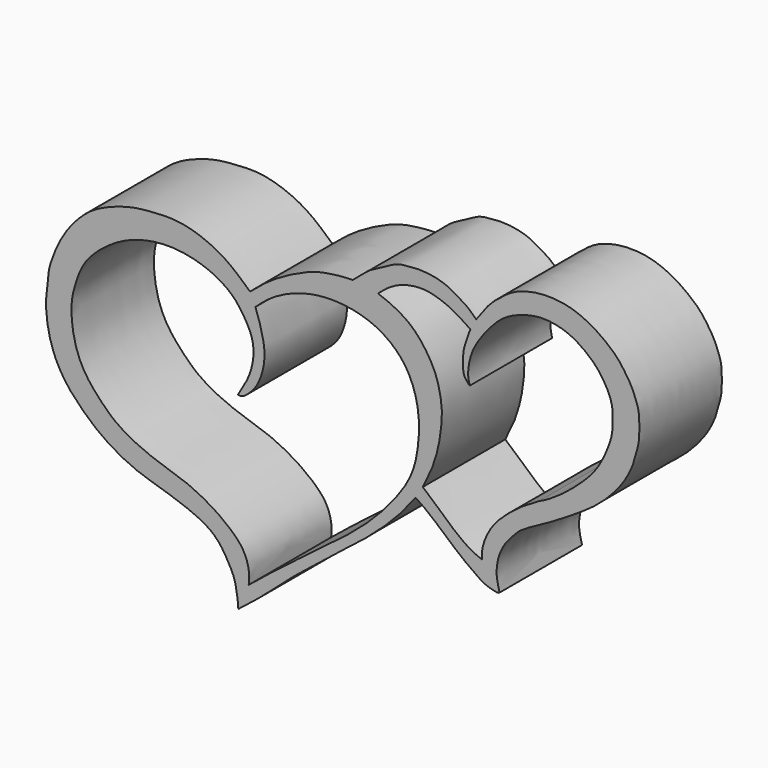
from build123d import *

# Parameters (mm, degrees)
F1_DEPTH = 25.4


with BuildPart() as f1:
    # F0 (on Front) → F1 (new body)
    with BuildSketch(Plane.XZ):
        with BuildLine():
            add(Edge.make_bspline(
                [(-22.489529103, 16.3989048451), (-22.0142075776, 16.8060529981), (-20.9521655065, 17.7157708301), (-18.592749368, 19.6539799274), (-14.772744136, 22.198501643), (-9.6422708816, 24.7982253854), (-5.0473006646, 26.4748851839), (0.5387129096, 27.1087820233), (2.1749027801, 27.1328115897), (2.8071058914, 27.1420963109)],
                knots=[0, 0, 0, 0, 0.1017264919, 0.2272941752, 0.3840765855, 0.5579878597, 0.7224481579, 0.8927574719, 1, 1, 1, 1], degree=3))
            add(Edge.make_bspline(
                [(-25.3783352673, -53.4045882523), (-25.380810705, -53.2480326303), (-25.3900720852, -52.6623094816), (-25.9543071106, -47.5353584613), (-27.5329464576, -44.6140779389), (-29.8213881557, -40.507419256), (-33.0993677019, -37.7370435063), (-37.9442625297, -35.5167498457), (-44.149647689, -33.4436517233), (-50.5240418616, -31.6413562893), (-56.6141165823, -28.5211982215), (-61.6579988208, -24.8807606802), (-67.4546960547, -19.117941277), (-70.1048380578, -14.5464311113), (-71.2024590483, -11.7399850464), (-72.2741058098, -8.3340974475), (-73.0383386057, -2.4850478066), (-72.2961752506, 2.3119528559), (-72.1582555502, 5.8594022765), (-69.0511223183, 13.4564623225), (-64.807396324, 18.6880875725), (-60.3392144955, 22.4159058568), (-52.4944694734, 25.2888831952), (-47.0769112921, 25.8160573746), (-40.2954789709, 26.2267395115), (-33.833493715, 24.3450200389), (-28.7702060765, 21.7690490948), (-25.067145744, 18.7536621902), (-23.3023322512, 17.1414334868), (-22.489529103, 16.3989048451)],
                knots=[0, 0, 0, 0, 0.0131358269, 0.0491452035, 0.0803462978, 0.1147492547, 0.1482068994, 0.1854767669, 0.2271834867, 0.2692864962, 0.3113056222, 0.3522569132, 0.3988301977, 0.4359469531, 0.4634190576, 0.4938684524, 0.5335752927, 0.5690104067, 0.5995275867, 0.6454959589, 0.6879668152, 0.7270770898, 0.7733463831, 0.8117598199, 0.8535925726, 0.8957925339, 0.9346088434, 0.969883425, 1, 1, 1, 1], degree=3))
            add(Edge.make_bspline(
                [(18.2846803218, -15.0200212374), (17.2488014993, -16.3851988473), (14.9876384889, -19.3651701015), (9.8523743638, -24.628899687), (3.3350620135, -30.0793577788), (-1.4164666367, -33.472404808), (-6.2282079426, -37.5841411525), (-11.7960187043, -41.7298710073), (-18.8890278718, -48.3530093587), (-23.2732392277, -51.7658835224), (-25.3783352673, -53.4045882523)],
                knots=[0, 0, 0, 0, 0.107383803, 0.234402208, 0.3702738552, 0.4830268297, 0.5979632031, 0.7213788304, 0.8662189678, 1, 1, 1, 1], degree=3))
            add(Edge.make_bspline(
                [(39.0041060746, -28.8992524147), (38.8729618126, -28.9803309307), (38.4370472908, -29.2498303508), (35.3213271287, -28.3304855542), (33.6573681709, -27.213399163), (29.7874759534, -24.4825893522), (26.0861828074, -21.2274648356), (21.1446237918, -16.9143854411), (19.1282100255, -15.578756923), (18.2846803218, -15.0200212374)],
                knots=[0, 0, 0, 0, 0.0583915601, 0.1940895363, 0.3111787807, 0.4764606156, 0.6567506281, 0.8564079229, 1, 1, 1, 1], degree=3))
            add(Edge.make_bspline(
                [(33.2293175161, 28.4887123853), (33.5652698457, 28.956174708), (34.3413388216, 30.0360392423), (36.2655541727, 32.66313762), (38.8241490007, 34.9814046609), (42.264905797, 37.5106969682), (45.6856256834, 38.6654818677), (49.3736228408, 39.3648169167), (53.8302058527, 39.2115990037), (57.5039342502, 38.3766303984), (61.1892434393, 36.7088023435), (63.0570257756, 35.5977111085), (67.5176295642, 32.2990656856), (69.717497614, 29.2696548278), (71.7906455541, 26.1360180586), (72.6966159606, 23.3828994613), (73.5488922898, 21.1914433428), (73.4658935031, 15.0838276145), (72.8555949781, 13.0761426998), (71.9750283188, 9.4212688868), (70.1363906803, 5.8144681409), (68.1158208129, 3.0536512384), (65.327576658, -0.1273239878), (61.4598313529, -3.3567160343), (57.4500069001, -5.8550900101), (53.9653409377, -8.1688120667), (50.6586113493, -10.0044702793), (46.7910955969, -12.0950805458), (43.8308651947, -13.812457351), (42.1886331326, -15.6626893825), (40.0740449268, -18.0094280505), (38.78467028, -20.843232244), (38.2598449003, -23.3993848247), (38.2059874499, -25.964820687), (38.7296484973, -27.8901580297), (39.0041060746, -28.8992524147)],
                knots=[0, 0, 0, 0, 0.0219876424, 0.0507927038, 0.0811919785, 0.1142948103, 0.1447852686, 0.1759499748, 0.2097556335, 0.2416321644, 0.2731668021, 0.297566869, 0.3348098368, 0.3668828053, 0.3978332131, 0.4245503171, 0.4498853012, 0.488932674, 0.51321194, 0.5437148347, 0.576371639, 0.6060719943, 0.6390487649, 0.6753863109, 0.7106079357, 0.7433450706, 0.7747996688, 0.8087735596, 0.8383636115, 0.8634863111, 0.8919940128, 0.920427725, 0.9462845015, 0.9718470074, 1, 1, 1, 1], degree=3))
            add(Edge.make_bspline(
                [(2.8071058914, 27.1420963109), (3.3551292057, 27.5850813022), (4.5640591674, 28.5622985385), (6.9995159749, 30.804289668), (10.0397583163, 32.2069661755), (13.3960422353, 34.2367678554), (16.236862864, 34.5807964616), (19.3870836717, 34.8409944612), (22.9463969521, 34.4437012709), (25.8026136121, 33.6313862766), (28.3870401336, 32.1698654221), (30.9282020582, 30.7228339453), (32.450370672, 29.2449812342), (33.2293175161, 28.4887123853)],
                knots=[0, 0, 0, 0, 0.0770352702, 0.1699384748, 0.2657342116, 0.366879041, 0.4534530826, 0.544930606, 0.6425187552, 0.7313887059, 0.8195664332, 0.9076658419, 1, 1, 1, 1], degree=3))
        make_face()
        with BuildLine():
            add(Edge.make_bspline(
                [(-25.4823379219, -6.947863847), (-24.7072689742, -5.6969323506), (-23.1576715662, -3.1959416835), (-21.6461628304, 0.969488134), (-21.4380006601, 6.3319125716), (-24.3086582332, 11.1476605865), (-26.8036243823, 14.4618501748), (-32.0377472275, 17.9267050389), (-39.8331972349, 19.9649566058), (-46.5198051765, 19.6764260933), (-52.1629685941, 18.1597104693), (-57.232552556, 15.4128595751), (-61.6505378405, 11.6495146071), (-64.3040507004, 8.0072736154), (-65.9174804736, 2.9235295255), (-66.4245874173, 0.5098518949), (-66.5650579665, -2.3773550045), (-66.1677138116, -7.2344977002), (-64.0734074426, -14.0831092935), (-58.5559723013, -20.1552528216), (-55.0076685963, -23.274833037), (-49.7996324029, -26.1705320892), (-43.1891386801, -28.6209683132), (-37.7483904206, -30.1059271143), (-30.5357765284, -33.9051219234), (-25.7138102354, -38.0048986809), (-23.703528013, -40.7438113903), (-22.6108591004, -44.1549814179), (-22.7482957421, -46.2844193761), (-22.8221248835, -47.338347882)],
                knots=[0, 0, 0, 0, 0.0339332719, 0.0678752908, 0.1048698149, 0.1425859486, 0.1754090603, 0.2153590231, 0.2614587816, 0.3033237816, 0.3420995415, 0.3810269269, 0.4196729922, 0.4544810043, 0.4913695369, 0.5167370715, 0.5434336876, 0.5789068953, 0.6225761644, 0.6685870959, 0.7037869359, 0.742976338, 0.7858466539, 0.8246941104, 0.8710066382, 0.9116966704, 0.9411356801, 0.971091716, 1, 1, 1, 1], degree=3))
            add(Edge.make_bspline(
                [(-21.1741197854, 13.4959546849), (-20.8693187076, 12.6750661136), (-20.1541191021, 10.7488945052), (-18.7904460983, 5.63044739), (-18.9448277642, 1.3869803726), (-20.2809073845, -2.7506283952), (-21.953867731, -5.0693670884), (-24.2779941824, -7.1708159647), (-25.1517009956, -7.0090724542), (-25.4823379219, -6.947863847)],
                knots=[0, 0, 0, 0, 0.1349025238, 0.316541636, 0.4828585942, 0.6449443281, 0.7827250287, 0.9177766184, 1, 1, 1, 1], degree=3))
            add(Edge.make_bspline(
                [(-22.8221248835, -47.338347882), (-21.5822522753, -46.2956789062), (-18.8975740556, -44.0380028587), (-13.3786367389, -40.0119818677), (-7.4834514664, -35.1769076177), (-1.6102965896, -31.079988561), (4.574808039, -26.1502881033), (10.4055609049, -20.5837357105), (16.8275898816, -12.4069603536), (18.8338319817, -5.7060626577), (19.4800393704, 2.5176596885), (17.7670788338, 9.706905547), (14.1753368282, 15.4201033221), (7.3912683696, 20.0340646079), (-1.999211492, 21.6842681841), (-10.2532609996, 20.4162162346), (-17.0243398527, 17.223701668), (-19.8591000892, 14.6772367733), (-21.1741197854, 13.4959546849)],
                knots=[0, 0, 0, 0, 0.0513450438, 0.1111766804, 0.1745344492, 0.2358999201, 0.299560913, 0.3654074387, 0.4383046132, 0.4988227614, 0.5637745658, 0.6255467923, 0.68386707, 0.7483411877, 0.8184789434, 0.884655506, 0.94649273, 1, 1, 1, 1], degree=3))
        make_face(mode=Mode.SUBTRACT)
        with BuildLine():
            add(Edge.make_bspline(
                [(20.0696177781, -12.1469078586), (20.3852234686, -11.4961664462), (21.1011972394, -10.0199136512), (22.7486134217, -6.7086559014), (24.2279359077, -1.2017851215), (24.8399851295, 3.8965813923), (24.772046385, 7.4822513083), (23.5640639852, 13.7470469708), (19.7000144185, 19.5926431954), (16.3728794452, 22.8188276331), (12.0768502523, 25.147355713), (9.9666047358, 25.8924157912), (9.0142423287, 26.2286644429)],
                knots=[0, 0, 0, 0, 0.0709312706, 0.1609125907, 0.2746005356, 0.3805877285, 0.4691048808, 0.5868258793, 0.7112855652, 0.8131259346, 0.9156629722, 1, 1, 1, 1], degree=3))
            add(Edge.make_bspline(
                [(9.0142423287, 26.2286644429), (9.781606502, 26.9002846676), (11.4164995967, 28.3311923198), (14.9028149678, 30.2887902453), (19.7309715736, 31.0457554686), (23.176346388, 30.372601545), (27.0239241689, 28.986416891), (30.3458023302, 26.8438905907), (31.376030742, 26.1494619848), (31.781103462, 25.8764214814)],
                knots=[0, 0, 0, 0, 0.1347628617, 0.2871164431, 0.4536733694, 0.5959878328, 0.751089688, 0.9021316283, 1, 1, 1, 1], degree=3))
            add(Edge.make_bspline(
                [(31.781103462, 25.8764214814), (31.5595170065, 25.256414604), (31.0733591452, 23.8961274108), (30.0536992964, 21.0183458375), (29.9166539985, 18.4823334355), (29.9802337248, 15.2177571653), (31.1102506713, 14.096226199), (31.627908349, 13.5824559256)],
                knots=[0, 0, 0, 0, 0.1798859474, 0.3946674778, 0.5971394536, 0.8154506837, 1, 1, 1, 1], degree=3))
            add(Edge.make_bspline(
                [(31.627908349, 13.5824559256), (31.5107009295, 14.034873765), (31.2517464304, 15.0344319444), (31.2037858605, 17.1646885735), (31.9933090897, 21.2453966152), (34.750257277, 25.6781414092), (38.9342029872, 30.5537667425), (43.1109017521, 32.8192261417), (48.9681655014, 34.4778949567), (54.9577135812, 33.4467128295), (59.0306286434, 31.2356283812), (63.6372346152, 27.5896212214), (67.0821336842, 21.2672992494), (66.793991644, 17.0747396851), (66.8953139195, 14.0525303173), (64.4149515485, 7.8514587989), (61.9453566492, 4.337083878), (59.2659073359, 1.5496015218), (55.772336197, -1.5093516006), (52.3217323286, -4.0046951668), (49.8222697336, -5.4150703128), (48.6838258803, -5.9200613759)],
                knots=[0, 0, 0, 0, 0.0297700411, 0.0654696919, 0.1152338819, 0.1726924395, 0.2350595702, 0.2890066897, 0.3496073057, 0.4100025477, 0.4629038445, 0.5230381032, 0.5889145332, 0.6382172481, 0.6812153868, 0.7445731828, 0.796770325, 0.8449694554, 0.8983505404, 0.950144553, 1, 1, 1, 1], degree=3))
            add(Edge.make_bspline(
                [(48.6838258803, -5.9200613759), (47.4163695271, -6.6311241112), (44.7695998207, -8.116003099), (40.597772147, -11.3858085336), (37.131202478, -14.7924012965), (35.1484354419, -18.8193456373), (34.5683171848, -21.4868857036), (34.625476923, -22.6488538796), (34.6504226327, -23.1559611857)],
                knots=[0, 0, 0, 0, 0.1816612027, 0.3793545765, 0.5702671863, 0.7512785237, 0.8914527262, 1, 1, 1, 1], degree=3))
            add(Edge.make_bspline(
                [(34.6504226327, -23.1559611857), (33.745711288, -22.8033235929), (31.6763031183, -21.9967114953), (27.4864833103, -18.8301671156), (24.2213063516, -15.6923386797), (21.013103224, -13.0845186351), (20.3179523603, -12.3936961704), (20.0696177781, -12.1469078586)],
                knots=[0, 0, 0, 0, 0.1887999078, 0.4318549489, 0.6677115007, 0.8812937882, 1, 1, 1, 1], degree=3))
        make_face(mode=Mode.SUBTRACT)
    extrude(amount=F1_DEPTH)


solid = f1.part
